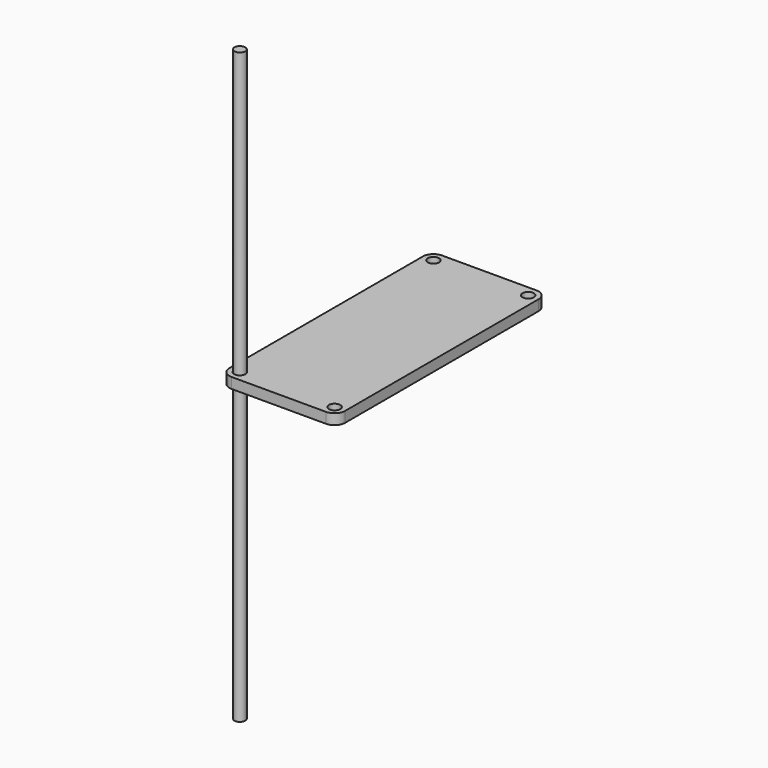
from build123d import *

# Parameters (mm, degrees)
F0_R     = 3.429
F1_DEPTH = 6.35
F2_R     = 3.28097
F3_DEPTH = 177.8


with BuildPart() as f1:
    # F0 (on Top) → F1 (new body)
    with BuildSketch(Plane.XY):
        with BuildLine():
            Line((28.575, 79.375), (0, 79.375))
            Line((0, 79.375), (-28.575, 79.375))
            ThreePointArc((-28.575, 79.375), (-33.065128, 77.515128), (-34.925, 73.025))
            Line((-34.925, 73.025), (-34.925, 0))
            Line((-34.925, 0), (-34.925, -73.025))
            ThreePointArc((-34.925, -73.025), (-33.065128, -77.515128), (-28.575, -79.375))
            Line((-28.575, -79.375), (0, -79.375))
            Line((0, -79.375), (28.575, -79.375))
            ThreePointArc((28.575, -79.375), (33.065128, -77.515128), (34.925, -73.025))
            Line((34.925, -73.025), (34.925, 0))
            Line((34.925, 0), (34.925, 73.025))
            ThreePointArc((34.925, 73.025), (33.065128, 77.515128), (28.575, 79.375))
        make_face()
        with Locations((-28.575, -73.025)):
            Circle(F0_R, mode=Mode.SUBTRACT)
        with Locations((28.575, -73.025)):
            Circle(F0_R, mode=Mode.SUBTRACT)
        with Locations((-28.575, 73.025)):
            Circle(F0_R, mode=Mode.SUBTRACT)
        with Locations((28.575, 73.025)):
            Circle(F0_R, mode=Mode.SUBTRACT)
    extrude(amount=F1_DEPTH)


with BuildPart() as f3:
    # F2 (on face) → F3 (new body, symmetric)
    with BuildSketch(Plane(origin=(0, 0, 0), x_dir=(1, 0, 0), z_dir=(0, 0, -1))):
        with Locations((-28.575, 73.025)):
            Circle(F2_R)
    extrude(amount=F3_DEPTH, both=True)


solid = Compound([f1.part, f3.part])
